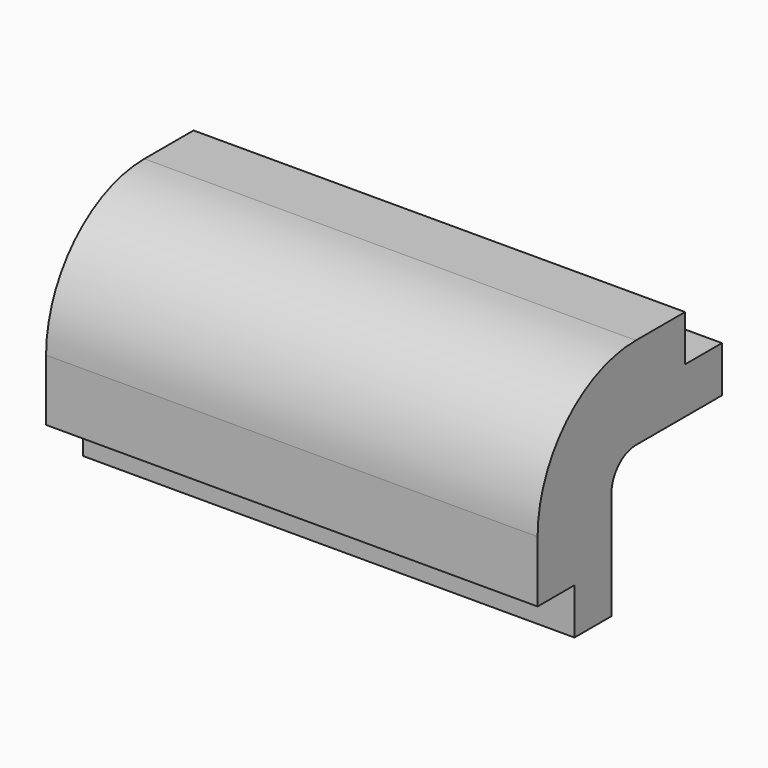
from build123d import *

# Parameters (mm, degrees)
F1_DEPTH = 101.6


with BuildPart() as f1:
    # F0 (on Right) → F1 (new body, symmetric)
    with BuildSketch(Plane.YZ):
        with BuildLine():
            Line((76.2, 0), (50.8, 0))
            ThreePointArc((50.8, 0), (14.878976, -14.878976), (0, -50.8))
            Line((0, -50.8), (0, -76.2))
            Line((0, -76.2), (19.05, -76.2))
            Line((19.05, -76.2), (19.05, -95.25))
            Line((19.05, -95.25), (38.1, -95.25))
            Line((38.1, -95.25), (38.1, -50.8))
            ThreePointArc((38.1, -50.8), (41.819744, -41.819744), (50.8, -38.1))
            Line((50.8, -38.1), (95.25, -38.1))
            Line((95.25, -38.1), (95.25, -19.05))
            Line((95.25, -19.05), (76.2, -19.05))
            Line((76.2, -19.05), (76.2, 0))
        make_face()
    extrude(amount=F1_DEPTH, both=True)


solid = f1.part
